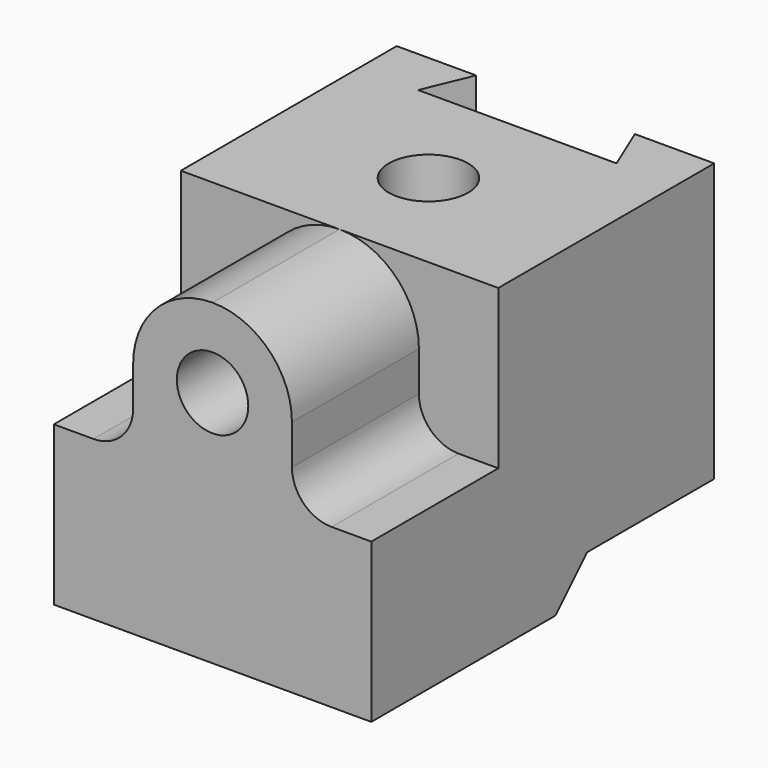
from build123d import *

# Parameters (mm, degrees)
F0_R     = 9
F1_DEPTH = 40
F3_DEPTH = 80
F5_DEPTH = 100
F7_R     = 10
F8_DEPTH = 100


with BuildPart() as f1:
    # F0 (on Front) → F1 (new body)
    with BuildSketch(Plane.XZ):
        with BuildLine():
            ThreePointArc((-20, 0), (0, -20), (20, 0))
            ThreePointArc((20, 0), (14.1421356237, 14.1421356237), (0, 20))
            ThreePointArc((0, 20), (-14.1421356237, 14.1421356237), (-20, 0))
        make_face()
        Circle(F0_R, mode=Mode.SUBTRACT)
        with BuildLine():
            Line((20, -10), (20, 0))
            ThreePointArc((20, 0), (0, -20), (-20, 0))
            Line((-20, 0), (-20, -10))
            ThreePointArc((-20, -10), (-22.9289321881, -17.0710678119), (-30, -20))
            Line((-30, -20), (-40, -20))
            Line((-40, -20), (-40, -60))
            Line((-40, -60), (40, -60))
            Line((40, -60), (40, -20))
            Line((40, -20), (30, -20))
            ThreePointArc((30, -20), (22.9289321881, -17.0710678119), (20, -10))
        make_face()
    extrude(amount=F1_DEPTH)

    # F2 (on face) → F3 (join)
    with BuildSketch(Plane(origin=(-40, 0, 0), x_dir=(0, -1, 0), z_dir=(-1, 0, 0))):
        Polygon((-18, -60), (0, -60), (0, -20), (0, 20), (-68, 20), (-68, -50), (-28, -50), align=None)
    extrude(amount=-F3_DEPTH)


with BuildPart() as f5:
    # F4 (on face) → F5 (new body)
    with BuildSketch(Plane.XY.offset(20)):
        Polygon((20, 68), (-20, 68), (-25, 56), (0, 56), (25, 56), align=None)
    extrude(amount=-F5_DEPTH)


with BuildPart() as f1_1:
    add(f1.part)

    # F6: cut F5
    add(f5.part, mode=Mode.SUBTRACT)


with BuildPart() as f8:
    # F7 (on face) → F8 (new body)
    with BuildSketch(Plane.XY.offset(20)):
        with Locations((0, 28)):
            Circle(F7_R)
    extrude(amount=-F8_DEPTH)


with BuildPart() as f1_2:
    add(f1_1.part)

    # F9: cut F8
    add(f8.part, mode=Mode.SUBTRACT)


solid = f1_2.part
